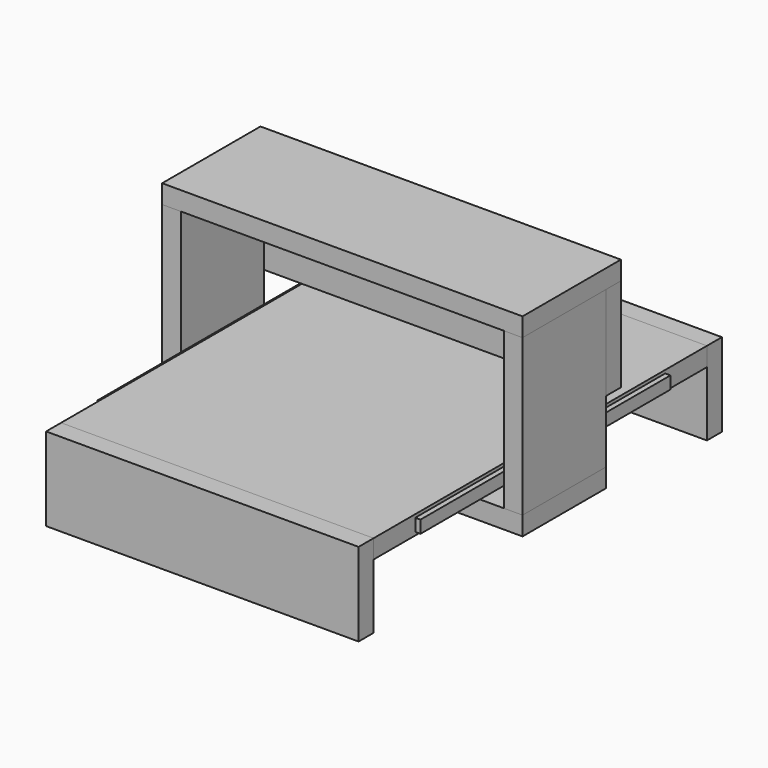
from build123d import *

# Parameters (mm, degrees)
F0_W      = 300
F0_H      = 18
F1_DEPTH  = 200
F2_W      = 300
F2_H      = 18
F3_DEPTH  = 80
F5_W      = 300
F5_H      = 12
F6_DEPTH  = 5
F8_W      = 100
F8_H      = 119
F8_W_2    = 50
F8_H_2    = 19
F9_DEPTH  = 18
F11_W     = 328
F11_H     = 100
F11_W_2   = 18
F12_DEPTH = 18
F13_W     = 328
F13_H     = 90
F13_W_2   = 18
F14_DEPTH = 18
F15_W     = 18
F15_H     = 100
F16_DEPTH = 18


with BuildPart() as f1:
    # F0 (on Front) → F1 (new body, symmetric)
    with BuildSketch(Plane.XZ):
        Rectangle(F0_W, F0_H)
    extrude(amount=F1_DEPTH, both=True)


with BuildPart() as f3:
    # F2 (on face) → F3 (new body)
    with BuildSketch(Plane.XY.offset(9)):
        with Locations((0, -209)):
            Rectangle(F2_W, F2_H)
    extrude(amount=-F3_DEPTH)


with BuildPart() as f4_1:
    # F4: instance of F3
    add(f3.part.mirror(Plane.XZ))


with BuildPart() as f6:
    # F5 (on face) → F6 (new body)
    with BuildSketch(Plane.YZ.offset(150)):
        Rectangle(F5_W, F5_H)
    extrude(amount=F6_DEPTH)


with BuildPart() as f7_1:
    # F7: instance of F6
    add(f6.part.mirror(Plane.YZ))


with BuildPart() as f9:
    # F8 (on face) → F9 (new body)
    with BuildSketch(Plane.YZ.offset(155)):
        with Locations((0, 65.5)):
            Rectangle(F8_W, F8_H)
        with Locations((-25, -15.5)):
            Rectangle(F8_W_2, F8_H_2)
        Polygon((-50, -6), (0, -6), (50, -6), (50, 6), (-50, 6), align=None)
        with Locations((25, -15.5)):
            Rectangle(F8_W_2, F8_H_2)
    extrude(amount=F9_DEPTH)


with BuildPart() as f10_1:
    # F10: instance of F9
    add(f9.part.mirror(Plane.YZ))


with BuildPart() as f12:
    # F11 (on face) → F12 (new body)
    with BuildSketch(Plane(origin=(0, 0, -25), x_dir=(1, 0, 0), z_dir=(0, 0, -1))):
        with Locations((-9, 0)):
            Rectangle(F11_W, F11_H)
        with Locations((164, 0)):
            Rectangle(F11_W_2, F11_H)
    extrude(amount=F12_DEPTH)


with BuildPart() as f14:
    # F13 (on face) → F14 (new body)
    with BuildSketch(Plane(origin=(0, 50, 0), x_dir=(-1, 0, 0), z_dir=(0, 1, 0))):
        with Locations((-9, 80)):
            Rectangle(F13_W, F13_H)
        with Locations((164, 80)):
            Rectangle(F13_W_2, F13_H)
    extrude(amount=F14_DEPTH)


with BuildPart() as f16:
    # F15 (on face) → F16 (new body)
    with BuildSketch(Plane.XY.offset(125)):
        Polygon((-173, -50), (155, -50), (155, 50), (173, 50), (173, 68), (-173, 68), align=None)
        with Locations((164, 0)):
            Rectangle(F15_W, F15_H)
    extrude(amount=F16_DEPTH)


solid = Compound([f1.part, f3.part, f4_1.part, f6.part, f7_1.part, f9.part, f10_1.part, f12.part, f14.part, f16.part])
